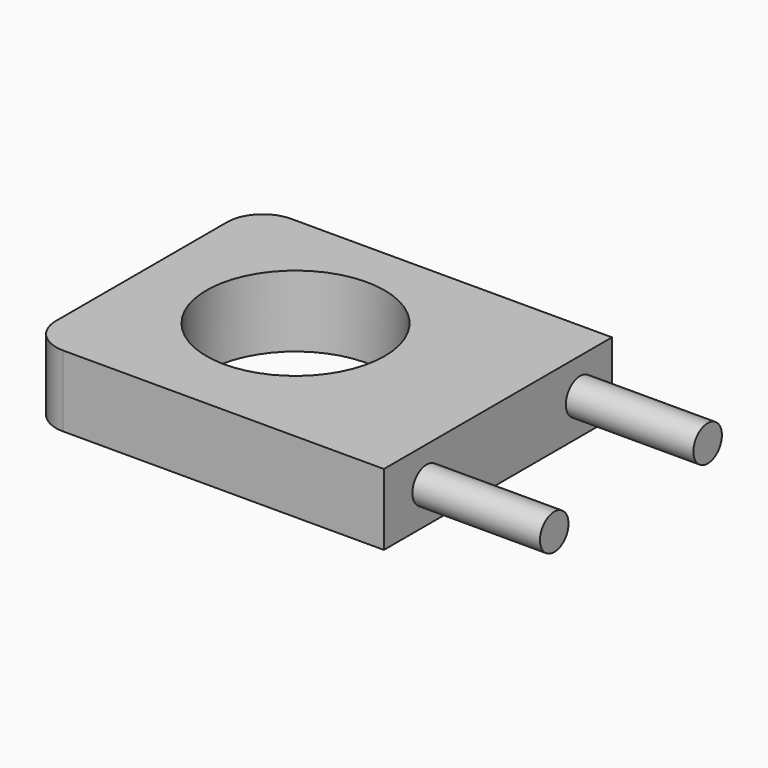
from build123d import *

# Parameters (mm, degrees)
F0_W     = 254
F0_H     = 203.2
F0_R     = 63.5
F1_DEPTH = 50.8
F2_R     = 25.4
F3_R     = 12.7
F4_DEPTH = 90.932


with BuildPart() as f1:
    # F0 (on Top) → F1 (new body)
    with BuildSketch(Plane.XY):
        with Locations((21.141905, -4.841334)):
            Rectangle(F0_W, F0_H)
        Circle(F0_R, mode=Mode.SUBTRACT)
    extrude(amount=F1_DEPTH)

    # F2
    f2_edges = [f1.edges().sort_by_distance(p)[0] for p in [
        (-105.858095, 96.758666, 25.4),
        (-105.858095, -106.441334, 25.4),
    ]]
    fillet(f2_edges, radius=F2_R)

    # F3 (on face) → F4 (join)
    with BuildSketch(Plane.YZ.offset(148.141905)):
        with Locations((-68.341334, 25.4)):
            Circle(F3_R)
        with Locations((68.341334, 25.4)):
            Circle(F3_R)
    extrude(amount=F4_DEPTH)


solid = f1.part
